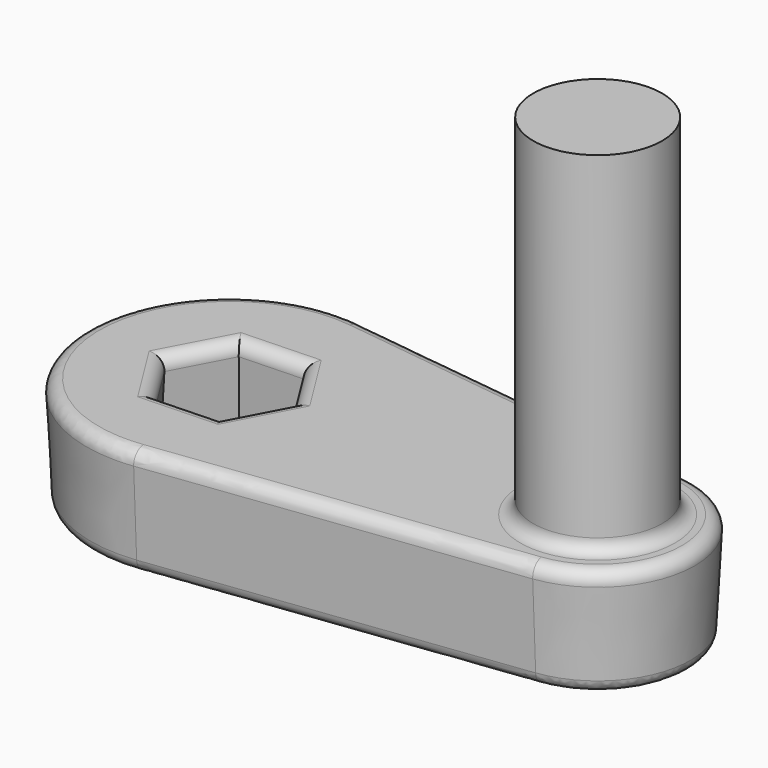
from build123d import *

# Parameters (mm, degrees)
F0_R     = 3.5
F1_DEPTH = 6
F1_TAPER = -3
F2_DEPTH = 25
F3_R     = 0.7


with BuildPart() as f1:
    # F0 (on Top) → F1 (new body)
    with BuildSketch(Plane.XY):
        with BuildLine():
            Line((-17.214833647, 4.9607837082), (-36.902333647, 7.4411755624))
            ThreePointArc((-36.902333647, 7.4411755624), (-45.339833647, 0), (-36.902333647, -7.4411755624))
            Line((-36.902333647, -7.4411755624), (-17.214833647, -4.9607837082))
            ThreePointArc((-17.214833647, -4.9607837082), (-12.839833647, 0), (-17.214833647, 4.9607837082))
        make_face()
        Polygon((-36.080574115, 3.3148663974), (-34.0894453707, 0.1338697521), (-35.8487049027, -3.1809966452), (-39.599093179, -3.3148663974), (-41.5902219233, -0.1338697521), (-39.8309623913, 3.1809966452), align=None, mode=Mode.SUBTRACT)
        with Locations((-17.839833647, 0)):
            Circle(F0_R, mode=Mode.SUBTRACT)
    extrude(amount=F1_DEPTH, taper=F1_TAPER)

    # F0 (on Top) → F2 (join)
    with BuildSketch(Plane.XY):
        with Locations((-17.839833647, 0)):
            Circle(F0_R)
    extrude(amount=F2_DEPTH)

    # F3
    f3_edges = [f1.edges().sort_by_distance(p)[0] for p in [
        (-27.058584, 6.20098, 0),
        (-45.339834, 0, 0),
        (-27.058584, -6.20098, 0),
        (-12.839834, 0, 0),
        (-40.594658, -1.724368, 0),
        (-40.710592, 1.523563, 0),
        (-37.955768, 3.247932, 0),
        (-35.08501, 1.724368, 0),
        (-34.969075, -1.523563, 0),
        (-37.723899, -3.247932, 0),
        (-27.019278, 6.51296, 6),
        (-45.65428, 0, 6),
        (-27.019278, -6.51296, 6),
        (-12.525387, 0, 6),
        (-21.339834, 0, 6),
        (-40.328121, -1.557531, 6),
        (-37.735116, -2.933685, 6),
        (-40.432838, 1.376154, 6),
        (-35.246829, -1.376154, 6),
        (-37.944551, 2.933685, 6),
        (-35.351547, 1.557531, 6),
    ]]
    fillet(f3_edges, radius=F3_R)


solid = f1.part
